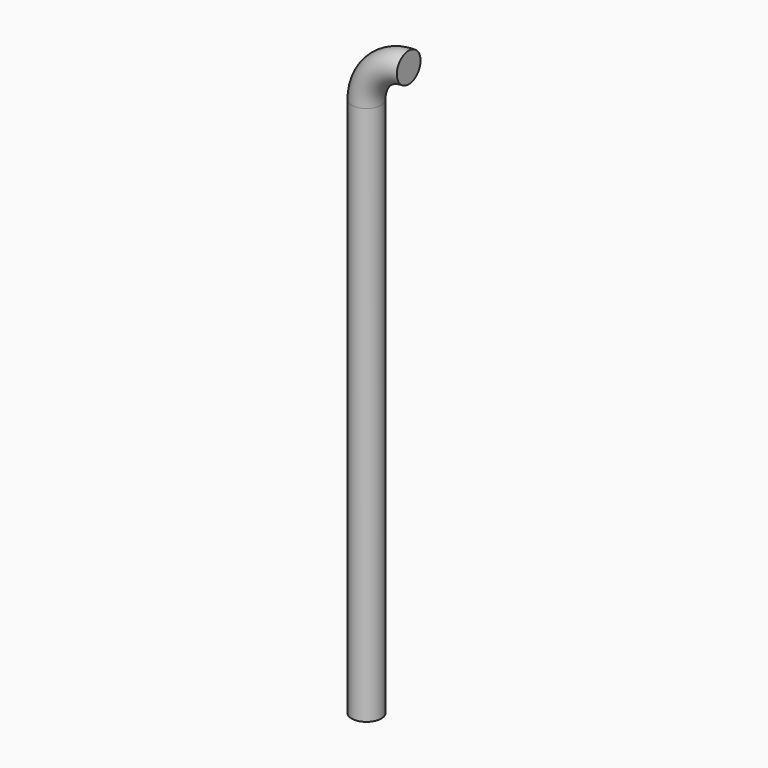
from build123d import *

# Parameters (mm, degrees)
F0_R     = 0.1397
F3_DEPTH = 5.08


with BuildPart() as f2:
    # F2: sweep along a path in F1
    with BuildLine(Plane.XZ) as f2_path:
        ThreePointArc((0, 0), (0.1164404579, 0.2811121327), (0.3975525906, 0.3975525906))
    # F0 (on Top) → F2 (sweep)
    with BuildSketch(Plane.XY):
        Circle(F0_R)
    sweep(path=f2_path.line)

    # F3 (add): a face of the model
    f3_faces = [f2.faces().sort_by_distance(p)[0] for p in [
        (0, 0, 0),
    ]]
    extrude(f3_faces, amount=F3_DEPTH)


solid = f2.part
